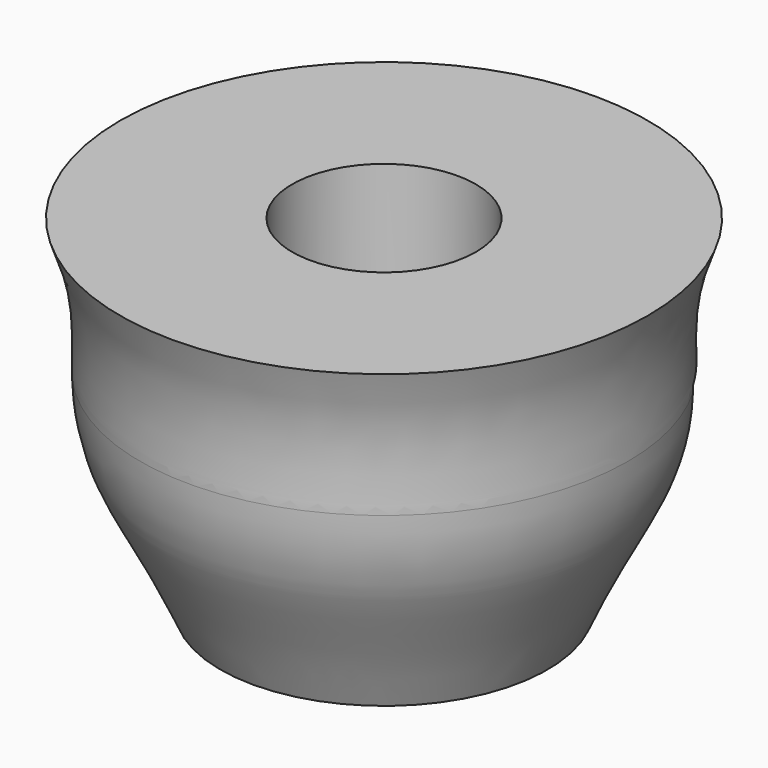
from build123d import *

# Parameters (mm, degrees)
F2_W     = 7.85
F2_H     = 8.7
F2_W_2   = 2.825
F2_H_2   = 2.6
F3_DEPTH = 15
F3_TAPER = -3
F4_R     = 0.2


with BuildPart() as f1:
    # F0 (on Front) → F1 (revolve)
    with BuildSketch(Plane.XZ):
        with BuildLine():
            Line((7, 1.3), (8.5, 1.3))
            add(Edge.make_bspline(
                [(8.5, 1.3), (8.5245147885, 2.5047661377), (8.3183865284, 3.8002770878), (9.2, 6)],
                knots=[0.6423223064, 0.6423223064, 0.6423223064, 0.6423223064, 1, 1, 1, 1], degree=3))
            Line((9.2, 6), (3.2, 6))
            Line((3.2, 6), (3.2, 1.3))
            Line((3.2, 1.3), (7, 1.3))
        make_face()
        with BuildLine():
            Line((7, -1.3), (8, -1.3))
            add(Edge.make_bspline(
                [(8, -1.3), (8.3348919138, -0.4480248747), (8.4817010289, 0.4007068768), (8.5, 1.3)],
                knots=[0.3753351458, 0.3753351458, 0.3753351458, 0.3753351458, 0.6423223064, 0.6423223064, 0.6423223064, 0.6423223064], degree=3))
            Line((8.5, 1.3), (7, 1.3))
            Line((7, 1.3), (7, -1.3))
        make_face()
        with BuildLine():
            Line((4.175, -1.3), (4.175, -6))
            Line((4.175, -6), (5.7, -6))
            add(Edge.make_bspline(
                [(5.7, -6), (6.6866941866, -3.701852543), (7.5292031832, -2.4977212959), (8, -1.3)],
                knots=[0, 0, 0, 0, 0.3753351458, 0.3753351458, 0.3753351458, 0.3753351458], degree=3))
            Line((8, -1.3), (7, -1.3))
            Line((7, -1.3), (4.175, -1.3))
        make_face()
    revolve(axis=Axis((0, 0, 0), (0, 0, 1)))

    # F2 (on Front) → F3 (cut)
    with BuildSketch(Plane.XZ):
        with Locations((0, -5.65)):
            Rectangle(F2_W, F2_H)
        with Locations((-5.3375, 0)):
            Rectangle(F2_W_2, F2_H_2)
        Rectangle(F2_W, F2_H_2)
        with Locations((5.3375, 0)):
            Rectangle(F2_W_2, F2_H_2)
    extrude(amount=-F3_DEPTH, taper=F3_TAPER, mode=Mode.SUBTRACT)

    # F4
    f4_edges = [f1.edges().sort_by_distance(p)[0] for p in [
        (-4.200843, 5.263394, -3.82442),
        (-3.989497, 1.230667, -3.682248),
        (3.989497, 1.230667, -3.682248),
        (4.200843, 5.263394, -3.82442),
        (-6.990249, 4.584231, -0.066771),
        (6.990249, 4.584231, -0.066771),
    ]]
    fillet(f4_edges, radius=F4_R)


solid = f1.part
